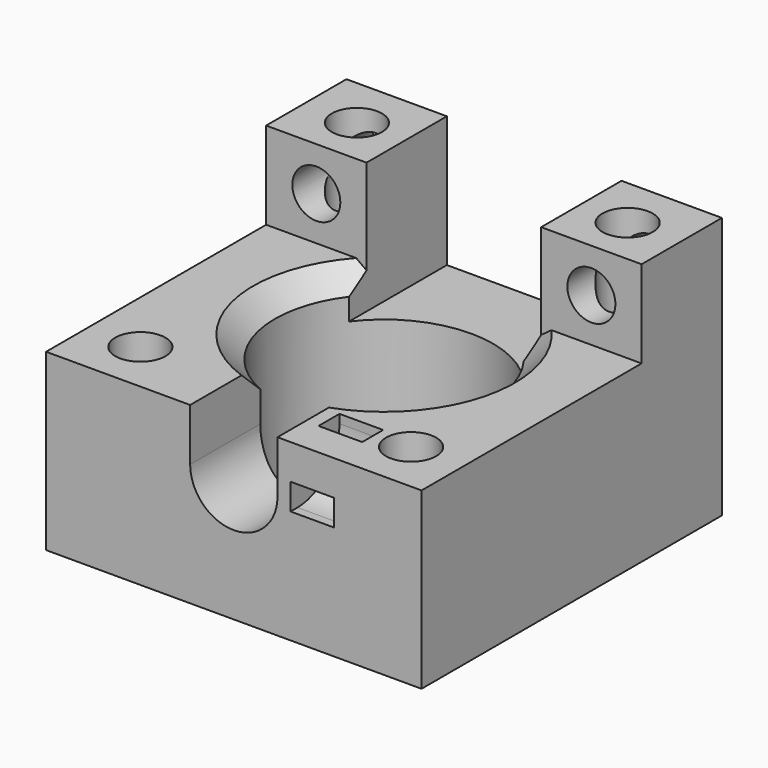
from build123d import *

# Parameters (mm, degrees)
SKETCH_W            = 43
SKETCH_H            = 43
PAD_DEPTH           = 20
HOLE_D              = 3.75
HOLE_CBORE_D        = 5.75
HOLE_CBORE_DEPTH    = 15
HOLE001_D           = 25
HOLE001_CSINK_D     = 30
HOLE001_CSINK_ANGLE = 90
SKETCH003_W         = 20
SKETCH003_H         = 32.696217
POCKET_DEPTH        = 5
POCKET001_DEPTH     = 25
SKETCH005_W         = 11.5
SKETCH005_H         = 11.5
PAD001_DEPTH        = 10
PAD001_DEPTH_BACK   = 2
HOLE002_D           = 3.75
HOLE002_CBORE_D     = 5.75
HOLE002_CBORE_DEPTH = 15
SKETCH007_R         = 2.75
HOLE003_DEPTH       = 11.501
POCKET002_DEPTH     = 2.5


with BuildPart() as part:
    # Sketch → Pad (new body)
    with BuildSketch(Plane.XY):
        with Locations((21.5, 21.5)):
            Rectangle(SKETCH_W, SKETCH_H)
    extrude(amount=PAD_DEPTH)

    # Hole (through all)
    with Locations(Plane.XY.offset(20)):
        with Locations((6, 37), (37, 37), (37, 6), (6, 6)):
            CounterBoreHole(HOLE_D / 2, HOLE_CBORE_D / 2, HOLE_CBORE_DEPTH)

    # Hole001 (through all)
    with Locations(Plane.XY.offset(20)):
        with Locations((21.5, 21.5)):
            CounterSinkHole(HOLE001_D / 2, HOLE001_CSINK_D / 2, counter_sink_angle=HOLE001_CSINK_ANGLE)

    # Sketch003 (on Face5 of Hole001) → Pocket (cut)
    with BuildSketch(Plane.XY.offset(20)):
        with Locations((21.5, 34.162118)):
            Rectangle(SKETCH003_W, SKETCH003_H)
    extrude(amount=-POCKET_DEPTH, mode=Mode.SUBTRACT)

    # Sketch004 (on Face1 of Pocket) → Pocket001 (cut)
    with BuildSketch(Plane.XZ):
        with BuildLine():
            ThreePointArc((16.5, 14), (21.5, 9), (26.5, 14))
            Line((26.5, 20), (26.5, 14))
            Line((16.5, 20), (26.5, 20))
            Line((16.5, 20), (16.5, 14))
        make_face()
    extrude(amount=-POCKET001_DEPTH, mode=Mode.SUBTRACT)

    # Sketch005 (on Face8 of Pocket001) → Pad001 (join, two sides)
    with BuildSketch(Plane.XY.offset(20)) as pad001_sk:
        with Locations((5.75, 37.25)):
            Rectangle(SKETCH005_W, SKETCH005_H)
        with Locations((37.25, 37.25)):
            Rectangle(SKETCH005_W, SKETCH005_H)
    extrude(amount=PAD001_DEPTH)
    extrude(pad001_sk.sketch, amount=-PAD001_DEPTH_BACK)

    # Hole002 (through all)
    with Locations(Plane.XY.offset(30)):
        with Locations((6, 37), (37, 37)):
            CounterBoreHole(HOLE002_D / 2, HOLE002_CBORE_D / 2, HOLE002_CBORE_DEPTH)

    # Sketch007 (on Face22 of Hole002) → Hole003 (cut, through all)
    with BuildSketch(Plane.XZ.offset(-31.5)):
        with Locations((5.75, 25)):
            Circle(SKETCH007_R)
        with Locations((37.25, 25)):
            Circle(SKETCH007_R)
    extrude(amount=-HOLE003_DEPTH, mode=Mode.SUBTRACT)

    # Sketch008 → Pocket002 (cut, symmetric)
    with BuildSketch(Plane.YZ.offset(30.5)):
        with BuildLine():
            Line((7, 20), (7, 19))
            ThreePointArc((1, 13), (5.242641, 14.757359), (7, 19))
            Line((1, 13), (0, 13))
            Line((0, 16), (0, 13))
            Line((1, 16), (0, 16))
            ThreePointArc((1, 16), (3.12132, 16.87868), (4, 19))
            Line((4, 20), (4, 19))
            Line((4, 20), (7, 20))
        make_face()
    extrude(amount=POCKET002_DEPTH, both=True, mode=Mode.SUBTRACT)


solid = part.part
